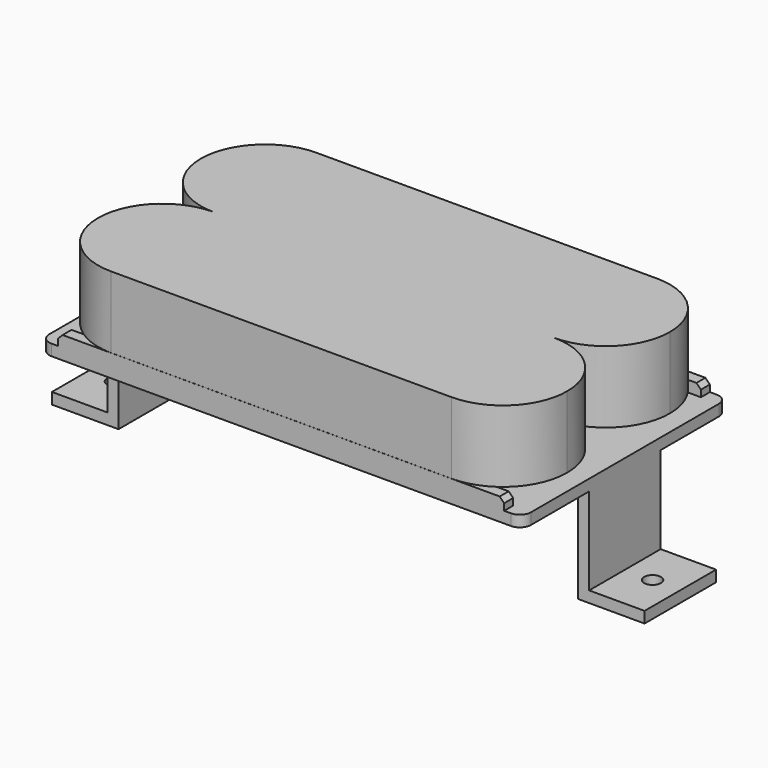
from build123d import *

# Parameters (mm, degrees)
F1_DEPTH  = 10.1854
F4_DEPTH  = 34.2265
F6_DEPTH  = 36.5262
F7_R      = 1.5875
F9_DEPTH  = 6.35
F10_R     = 1.190625
F11_DEPTH = 1.5885


with BuildPart() as f1:
    # F0 (on Top) → F1 (new body)
    with BuildSketch(Plane.XY):
        with BuildLine():
            Line((33.3248, -9.12495), (-33.3248, -9.12495))
            ThreePointArc((-33.3248, -9.12495), (-30.652164023, -15.577264023), (-24.19985, -18.2499))
            Line((-24.19985, -18.2499), (24.19985, -18.2499))
            ThreePointArc((24.19985, -18.2499), (30.652164023, -15.577264023), (33.3248, -9.12495))
        make_face()
        with BuildLine():
            Line((24.19985, 0), (0, 0))
            Line((0, 0), (-24.19985, 0))
            ThreePointArc((-24.19985, 0), (-30.652164023, -2.672635977), (-33.3248, -9.12495))
            Line((-33.3248, -9.12495), (33.3248, -9.12495))
            ThreePointArc((33.3248, -9.12495), (30.652164023, -2.672635977), (24.19985, 0))
        make_face()
    extrude(amount=F1_DEPTH)

    # F2: F1 across plane


with BuildPart() as f1_1:
    add(f1.part)
    add(f1.part.mirror(Plane.XZ))

    # F3 (on Right) → F4 (join, symmetric)
    with BuildSketch(Plane.YZ):
        Polygon((-16.6751, 0), (-18.2626, 0), (-18.2626, -3.175), (0, -3.175), (0, -1.5875), (-16.6751, -1.5875), align=None)
        Polygon((0, -1.5875), (0, -3.175), (18.2626, -3.175), (18.2626, 0), (16.6751, 0), (16.6751, -1.5875), align=None)
    extrude(amount=F4_DEPTH, both=True)

    # F5 (on face) → F6 (cut, through all)
    with BuildSketch(Plane.XZ.offset(18.2626)):
        Polygon((-34.2265, 0), (-34.2265, -1.5875), (-31.6865, -1.5875), (-31.6865, -0.635), (-31.0515, 0), align=None)
        Polygon((34.2265, 0), (31.0515, 0), (31.6865, -0.635), (31.6865, -1.5875), (34.2265, -1.5875), align=None)
    extrude(amount=-F6_DEPTH, mode=Mode.SUBTRACT)

    # F7
    f7_edges = [f1_1.edges().sort_by_distance(p)[0] for p in [
        (-34.2265, -18.2626, -2.38125),
        (-34.2265, 18.2626, -2.38125),
        (34.2265, -18.2626, -2.38125),
        (34.2265, 18.2626, -2.38125),
    ]]
    fillet(f7_edges, radius=F7_R)

    # F8 (on Front) → F9 (join, symmetric)
    with BuildSketch(Plane.XZ):
        Polygon((-32.639, -3.175), (-34.2265, -3.175), (-34.2265, -15.5575), (-42.1005, -15.5575), (-42.1005, -17.145), (-32.639, -17.145), align=None)
        Polygon((32.639, -3.175), (32.639, -17.145), (42.1005, -17.145), (42.1005, -15.5575), (34.2265, -15.5575), (34.2265, -3.175), align=None)
    extrude(amount=F9_DEPTH, both=True)

    # F10 (on face) → F11 (cut, through all)
    with BuildSketch(Plane.XY.offset(-15.5575)):
        with BuildLine():
            ThreePointArc((-39.354125, 0), (-38.1635, -1.190625), (-36.972875, 0))
            Line((-36.972875, 0), (-38.1635, 0))
            Line((-38.1635, 0), (-39.354125, 0))
        make_face()
        with BuildLine():
            Line((-38.1635, 0), (-36.972875, 0))
            ThreePointArc((-36.972875, 0), (-38.1635, 1.190625), (-39.354125, 0))
            Line((-39.354125, 0), (-38.1635, 0))
        make_face()
        with Locations((38.1635, 0)):
            Circle(F10_R)
    extrude(amount=-F11_DEPTH, mode=Mode.SUBTRACT)


solid = f1_1.part
